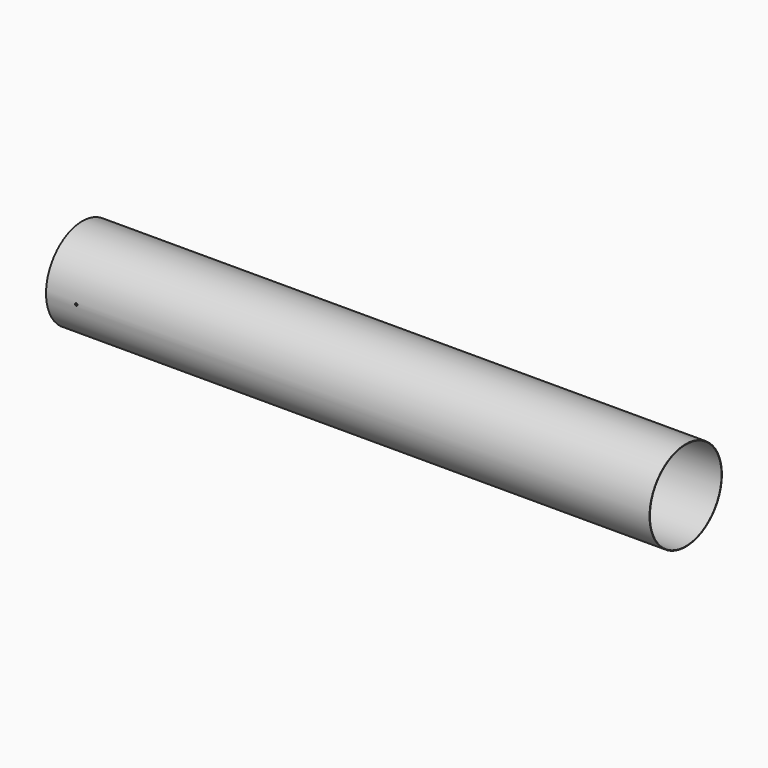
from build123d import *

# Parameters (mm, degrees)
F0_R     = 457.2
F0_R_2   = 452.4375
F1_DEPTH = 6096
F3_DEPTH = 508


with BuildPart() as f1:
    # F0 (on Right) → F1 (new body)
    with BuildSketch(Plane.YZ):
        Circle(F0_R)
        Circle(F0_R_2, mode=Mode.SUBTRACT)
    extrude(amount=F1_DEPTH)

    # F2 (on Front) → F3 (cut, symmetric)
    with BuildSketch(Plane.XZ):
        with BuildLine():
            ThreePointArc((292.1, 0), (304.8, -12.7), (317.5, 0))
            ThreePointArc((317.5, 0), (304.8, 12.7), (292.1, 0))
        make_face()
    extrude(amount=F3_DEPTH, both=True, mode=Mode.SUBTRACT)


solid = f1.part
